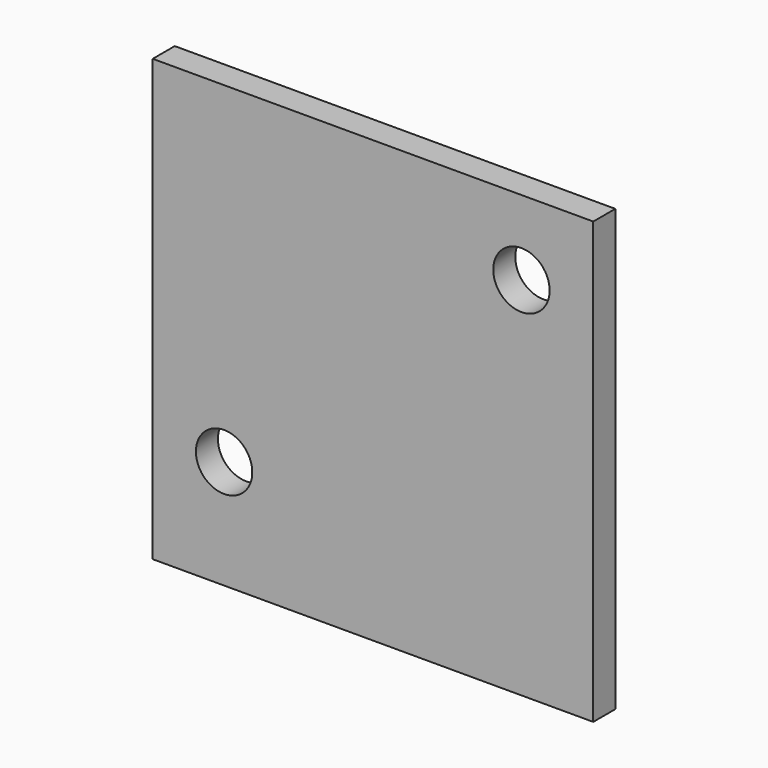
from build123d import *

# Parameters (mm, degrees)
F0_W     = 8.5598
F0_H     = 6.2738
F0_W_2   = 4.1402
F1_DEPTH = 1.5875
F2_D     = 3.2512


with BuildPart() as f1:
    # F0 (on Front) → F1 (new body)
    with BuildSketch(Plane.XZ):
        Polygon((0, 12.7), (-12.7, 12.7), (-12.7, -12.7), (0, -12.7), (0, -6.4262), align=None)
        Polygon((12.7, 12.7), (0, 12.7), (0, -6.4262), (8.5598, -6.4262), (12.7, -6.4262), align=None)
        with Locations((4.2799, -9.5631)):
            Rectangle(F0_W, F0_H)
        with Locations((10.6299, -9.5631)):
            Rectangle(F0_W_2, F0_H)
    extrude(amount=F1_DEPTH)

    # F2 (through all)
    with Locations(Plane(origin=(0, 0, 0), x_dir=(1, 0, 0), z_dir=(0, 1, 0))):
        with Locations((8.5598, -8.382), (-8.5852, 6.4262)):
            Hole(F2_D / 2)


solid = f1.part
